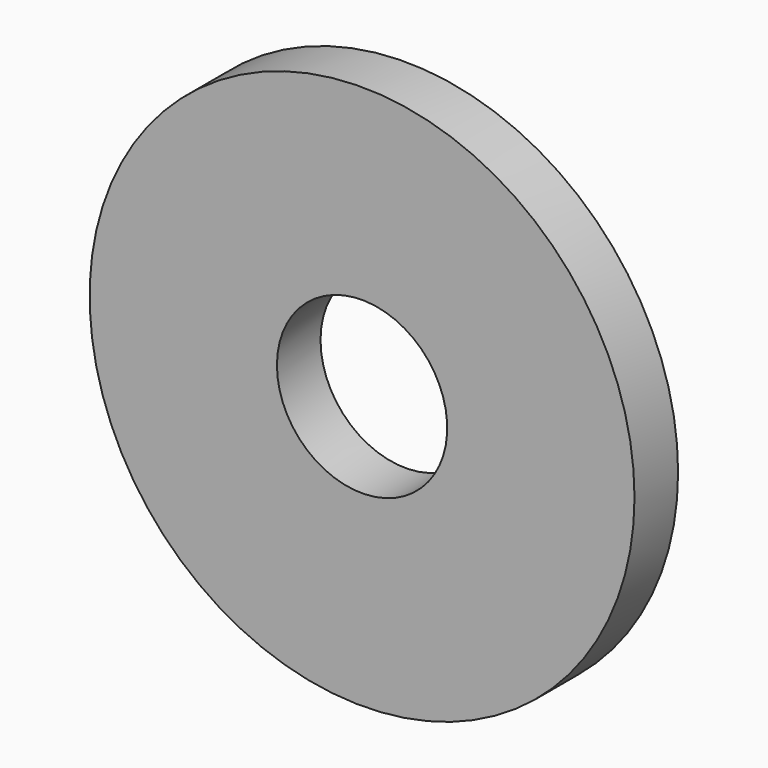
from build123d import *

# Parameters (mm, degrees)
F0_R     = 8
F1_DEPTH = 1.6
F2_D     = 5


with BuildPart() as f1:
    # F0 (on Front) → F1 (new body)
    with BuildSketch(Plane.XZ):
        Circle(F0_R)
    extrude(amount=-F1_DEPTH)

    # F2 (through all)
    with Locations(Plane.XZ):
        with Locations((0, 0)):
            Hole(F2_D / 2)


solid = f1.part
